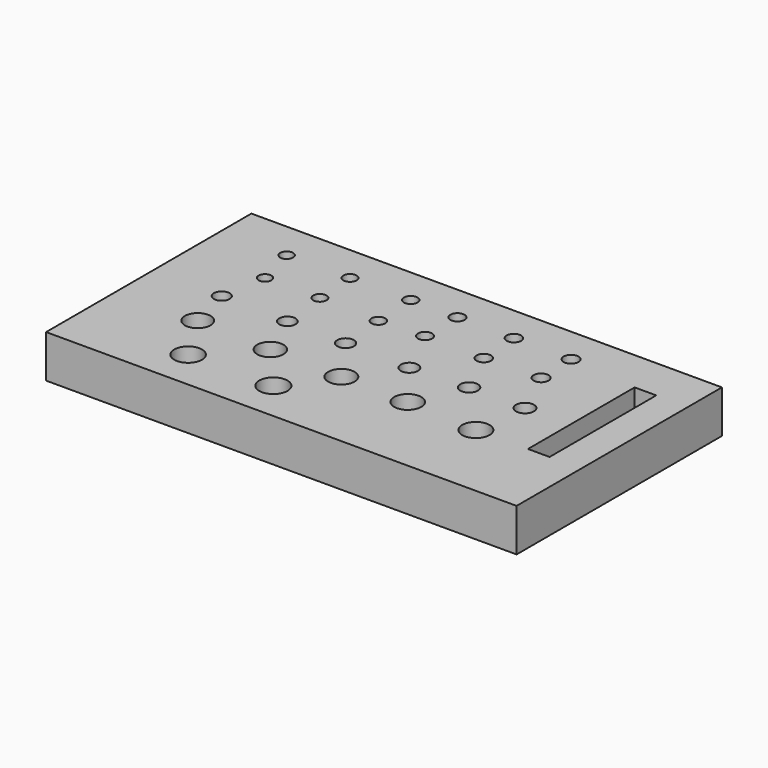
from build123d import *

# Parameters (mm, degrees)
F0_W     = 110
F0_H     = 60
F0_R     = 3.25
F0_R_2   = 3.3
F0_R_3   = 3
F0_R_4   = 3.05
F0_R_5   = 3.1
F0_R_6   = 3.15
F0_R_7   = 3.2
F0_R_8   = 1.85
F0_R_9   = 1.5
F0_R_10  = 1.9
F0_R_11  = 1.95
F0_R_12  = 1.55
F0_R_13  = 1.6
F0_R_14  = 2
F0_R_15  = 2.05
F0_R_16  = 1.65
F0_R_17  = 1.7
F0_R_18  = 1.75
F0_R_19  = 2.1
F0_W_2   = 5.055394
F0_H_2   = 31.174931
F1_DEPTH = 10


with BuildPart() as f1:
    # F0 (on Top) → F1 (new body)
    with BuildSketch(Plane.XY):
        Rectangle(F0_W, F0_H)
        with Locations((-29.181362, -20.761674)):
            Circle(F0_R, mode=Mode.SUBTRACT)
        with Locations((-9.345621, -20.652689)):
            Circle(F0_R_2, mode=Mode.SUBTRACT)
        with Locations((-36.208221, -9.176929)):
            Circle(F0_R_3, mode=Mode.SUBTRACT)
        with Locations((-18.724983, -9.808854)):
            Circle(F0_R_4, mode=Mode.SUBTRACT)
        with Locations((-1.873668, -10.124817)):
            Circle(F0_R_5, mode=Mode.SUBTRACT)
        with Locations((13.819118, -10.335458)):
            Circle(F0_R_6, mode=Mode.SUBTRACT)
        with Locations((30.455841, -11.228606)):
            Circle(F0_R_7, mode=Mode.SUBTRACT)
        with Locations((-38.841237, 1.1445)):
            Circle(F0_R_8, mode=Mode.SUBTRACT)
        with Locations((-37.156106, 11.676571)):
            Circle(F0_R_9, mode=Mode.SUBTRACT)
        with Locations((-23.253773, 0.828538)):
            Circle(F0_R_10, mode=Mode.SUBTRACT)
        with Locations((-9.56208, 0.723217)):
            Circle(F0_R_11, mode=Mode.SUBTRACT)
        with Locations((-24.412301, 11.781892)):
            Circle(F0_R_12, mode=Mode.SUBTRACT)
        with Locations((-10.404645, 11.360609)):
            Circle(F0_R_13, mode=Mode.SUBTRACT)
        with Locations((-39.683805, 21.155436)):
            Circle(F0_R_9, mode=Mode.SUBTRACT)
        with Locations((-25.044224, 21.366077)):
            Circle(F0_R_12, mode=Mode.SUBTRACT)
        with Locations((-10.931249, 21.471397)):
            Circle(F0_R_13, mode=Mode.SUBTRACT)
        with Locations((5.604102, 0.407255)):
            Circle(F0_R_14, mode=Mode.SUBTRACT)
        with Locations((18.979832, 1.1445)):
            Circle(F0_R_15, mode=Mode.SUBTRACT)
        with Locations((0, 11.992533)):
            Circle(F0_R_16, mode=Mode.SUBTRACT)
        with Locations((13.819118, 11.887213)):
            Circle(F0_R_17, mode=Mode.SUBTRACT)
        with Locations((26.878885, 12.308496)):
            Circle(F0_R_18, mode=Mode.SUBTRACT)
        with Locations((32.039602, 1.1445)):
            Circle(F0_R_19, mode=Mode.SUBTRACT)
        with Locations((45.093073, 4.44514)):
            Rectangle(F0_W_2, F0_H_2, mode=Mode.SUBTRACT)
        with Locations((0, 21.471397)):
            Circle(F0_R_16, mode=Mode.SUBTRACT)
        with Locations((13.187193, 21.471397)):
            Circle(F0_R_17, mode=Mode.SUBTRACT)
        with Locations((26.562924, 21.471397)):
            Circle(F0_R_18, mode=Mode.SUBTRACT)
    extrude(amount=F1_DEPTH)


solid = f1.part
